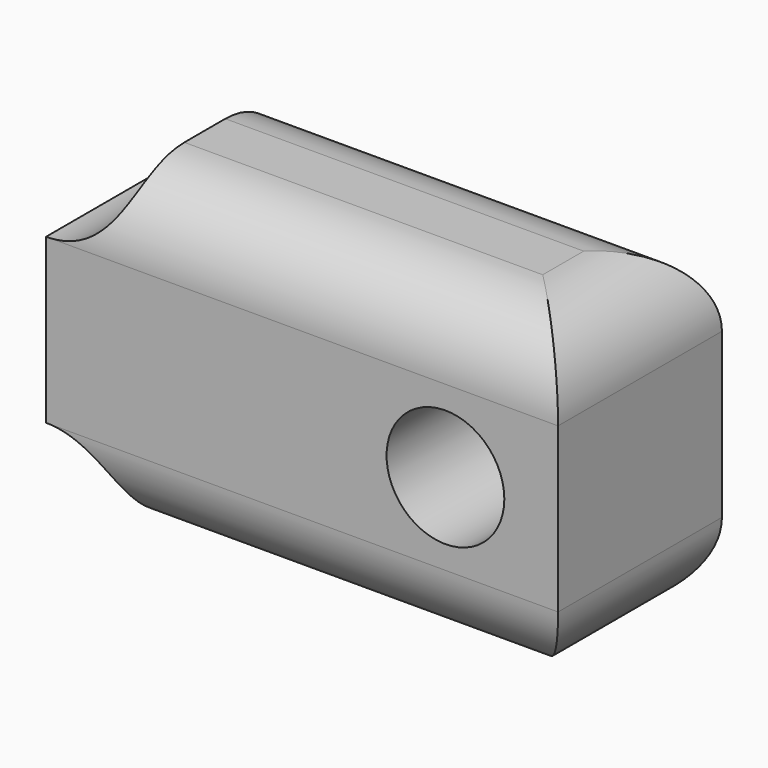
from build123d import *

# Parameters (mm, degrees)
F0_R     = 1.15
F1_DEPTH = 4
F2_R     = 1.5
F3_DEPTH = 5
F4_R     = 1.5


with BuildPart() as f1:
    # F0 (on Front) → F1 (new body)
    with BuildSketch(Plane.XZ):
        with BuildLine():
            Line((5, -3.1), (5, 3.1))
            Line((5, 3.1), (-3.5, 3.1))
            ThreePointArc((-3.5, 3.1), (-3.93934, 2.03934), (-5, 1.6))
            Line((-5, 1.6), (-5, -1.6))
            ThreePointArc((-5, -1.6), (-3.93934, -2.03934), (-3.5, -3.1))
            Line((-3.5, -3.1), (5, -3.1))
        make_face()
        with Locations((2.8, 0)):
            Circle(F0_R, mode=Mode.SUBTRACT)
    extrude(amount=F1_DEPTH)

    # F2 (on face) → F3 (cut)
    with BuildSketch(Plane(origin=(-5, 0, 0), x_dir=(0, -1, 0), z_dir=(-1, 0, 0))):
        with Locations((2, 0)):
            Circle(F2_R)
    extrude(amount=-F3_DEPTH, mode=Mode.SUBTRACT)

    # F4
    f4_edges = [f1.edges().sort_by_distance(p)[0] for p in [
        (5, -2, 3.1),
        (5, -2, -3.1),
        (0.75, -4, 3.1),
        (0.75, 0, 3.1),
        (0.75, -4, -3.1),
        (0.75, 0, -3.1),
    ]]
    fillet(f4_edges, radius=F4_R)


solid = f1.part
